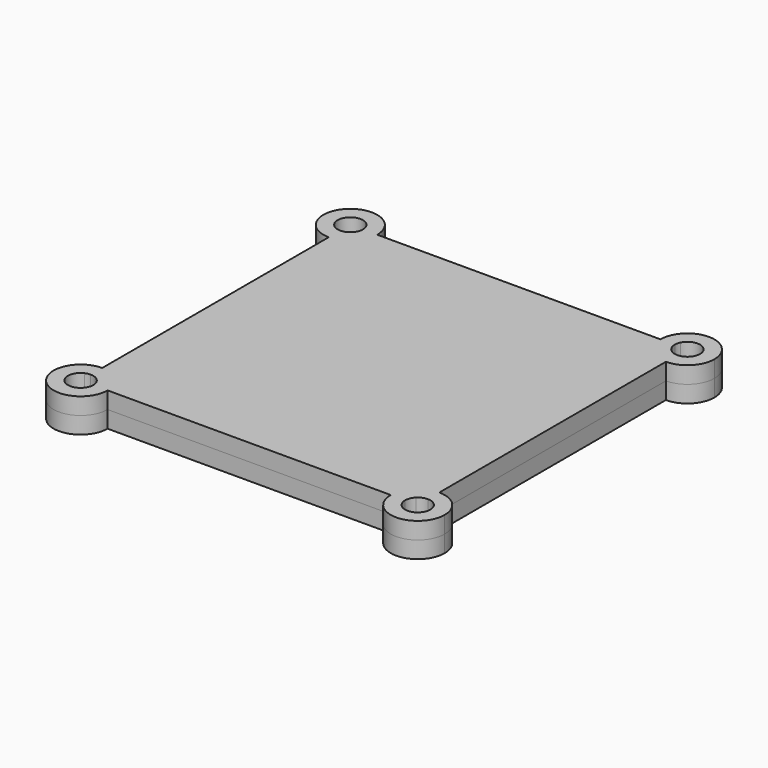
from build123d import *

# Parameters (mm, degrees)
F1_DEPTH = 5
F3_DEPTH = 25
F4_DEPTH = 2.5
F5_DEPTH = 2.5
F6_DEPTH = 2.5
F7_DEPTH = 2.5


with BuildPart() as f1:
    # F0 (on Top) → F1 (new body)
    with BuildSketch(Plane.XY):
        with BuildLine():
            ThreePointArc((-47.1118190335, 42.5395435324), (-48.5309274593, 42.1360426075), (-50, 42))
            Line((-50, 42), (-50, -42))
            ThreePointArc((-50, -42), (-48.4900795237, -42.1437833434), (-47.034434401, -42.5699649612))
            Line((-47.034434401, -42.5699649612), (-41.9311723239, -38.0483945934))
            ThreePointArc((-41.9311723239, -38.0483945934), (-40.0221812917, -37.3516206739), (-38.1559614151, -38.1559614151))
            Line((-38.1559614151, -38.1559614151), (-27, -27))
            Line((-27, -27), (-33, -27))
            Line((-33, -27), (-33, 27))
            Line((-33, 27), (-27, 27))
            Line((-27, 27), (-38.1559614151, 38.1559614151))
            ThreePointArc((-38.1559614151, 38.1559614151), (-40.083919893, 37.3505550762), (-42.021452709, 38.132648325))
            Line((-42.021452709, 38.132648325), (-47.1118190335, 42.5395435324))
        make_face()
        Polygon((0, 0), (-27, 27), (-33, 27), (-33, -27), (-27, -27), align=None)
        Polygon((27, 27), (-27, 27), (0, 0), align=None)
        Polygon((33, 27), (27, 27), (0, 0), (27, -27), (33, -27), align=None)
        Polygon((27, -27), (0, 0), (-27, -27), align=None)
        with BuildLine():
            ThreePointArc((-42.5524581868, -47.0786782203), (-42.1393278116, -48.5134493795), (-42, -50))
            Line((-42, -50), (42, -50))
            ThreePointArc((42, -50), (42.1359644106, -48.5313461101), (42.5392360621, -47.1126133854))
            Line((42.5392360621, -47.1126133854), (38.1140021207, -42.0021638285))
            ThreePointArc((38.1140021207, -42.0021638285), (37.3506686908, -40.0705063318), (38.1559614151, -38.1559614151))
            Line((38.1559614151, -38.1559614151), (27, -27))
            Line((27, -27), (-27, -27))
            Line((-27, -27), (-38.1559614151, -38.1559614151))
            ThreePointArc((-38.1559614151, -38.1559614151), (-37.559836349, -39.0481256244), (-37.3505050634, -40.1005050634))
            ThreePointArc((-37.3505050634, -40.1005050634), (-37.5262312232, -41.0677765846), (-38.0309517511, -41.9114299894))
            Line((-38.0309517511, -41.9114299894), (-42.5524581868, -47.0786782203))
        make_face()
        with BuildLine():
            Line((-40.8076118446, -40.8076118446), (-42.0450487117, -42.0450487117))
            ThreePointArc((-42.0450487117, -42.0450487117), (-41.7513990302, -42.2998343044), (-41.4247542089, -42.510663606))
            ThreePointArc((-41.4247542089, -42.510663606), (-40.7764895228, -42.1892686918), (-40.5147186258, -41.5147186258))
            ThreePointArc((-40.5147186258, -41.5147186258), (-40.5908390933, -41.1320351934), (-40.8076118446, -40.8076118446))
        make_face()
        with BuildLine():
            Line((-41.9311723239, -38.0483945934), (-47.034434401, -42.5699649612))
            ThreePointArc((-47.034434401, -42.5699649612), (-45.5985714207, -43.3196237785), (-44.3431457505, -44.3431457505))
            Line((-44.3431457505, -44.3431457505), (-42.2218254069, -42.2218254069))
            ThreePointArc((-42.2218254069, -42.2218254069), (-42.4548925188, -41.8554135784), (-42.510663606, -41.4247542089))
            ThreePointArc((-42.510663606, -41.4247542089), (-42.8108743992, -39.6353190109), (-41.9311723239, -38.0483945934))
        make_face()
        with BuildLine():
            ThreePointArc((-42.510663606, -41.4247542089), (-42.4548925188, -41.8554135784), (-42.2218254069, -42.2218254069))
            Line((-42.2218254069, -42.2218254069), (-42.0450487117, -42.0450487117))
            ThreePointArc((-42.0450487117, -42.0450487117), (-42.2998343044, -41.7513990302), (-42.510663606, -41.4247542089))
        make_face()
        with BuildLine():
            ThreePointArc((-38.1559614151, -38.1559614151), (-40.0221812917, -37.3516206739), (-41.9311723239, -38.0483945934))
            ThreePointArc((-41.9311723239, -38.0483945934), (-42.8108743992, -39.6353190109), (-42.510663606, -41.4247542089))
            ThreePointArc((-42.510663606, -41.4247542089), (-41.8554135784, -40.5745447327), (-40.8076118446, -40.8076118446))
            Line((-40.8076118446, -40.8076118446), (-38.1559614151, -38.1559614151))
        make_face()
        with BuildLine():
            Line((-42.2218254069, -42.2218254069), (-44.3431457505, -44.3431457505))
            ThreePointArc((-44.3431457505, -44.3431457505), (-43.3065641472, -45.618457294), (-42.5524581868, -47.0786782203))
            Line((-42.5524581868, -47.0786782203), (-38.0309517511, -41.9114299894))
            ThreePointArc((-38.0309517511, -41.9114299894), (-39.6223421131, -42.8086151411), (-41.4247542089, -42.510663606))
            ThreePointArc((-41.4247542089, -42.510663606), (-41.8554135784, -42.4548925188), (-42.2218254069, -42.2218254069))
        make_face()
        with BuildLine():
            ThreePointArc((-37.3505050634, -40.1005050634), (-37.559836349, -39.0481256244), (-38.1559614151, -38.1559614151))
            Line((-38.1559614151, -38.1559614151), (-40.8076118446, -40.8076118446))
            ThreePointArc((-40.8076118446, -40.8076118446), (-40.5908390933, -41.1320351934), (-40.5147186258, -41.5147186258))
            ThreePointArc((-40.5147186258, -41.5147186258), (-40.7764895228, -42.1892686918), (-41.4247542089, -42.510663606))
            ThreePointArc((-41.4247542089, -42.510663606), (-39.6223421131, -42.8086151411), (-38.0309517511, -41.9114299894))
            ThreePointArc((-38.0309517511, -41.9114299894), (-37.5262312232, -41.0677765846), (-37.3505050634, -40.1005050634))
        make_face()
        with BuildLine():
            Line((-42.0450487117, -42.0450487117), (-42.2218254069, -42.2218254069))
            ThreePointArc((-42.2218254069, -42.2218254069), (-41.8554135784, -42.4548925188), (-41.4247542089, -42.510663606))
            ThreePointArc((-41.4247542089, -42.510663606), (-41.7513990302, -42.2998343044), (-42.0450487117, -42.0450487117))
        make_face()
        with BuildLine():
            ThreePointArc((-40.8076118446, -40.8076118446), (-41.8554135784, -40.5745447327), (-42.510663606, -41.4247542089))
            ThreePointArc((-42.510663606, -41.4247542089), (-42.2998343044, -41.7513990302), (-42.0450487117, -42.0450487117))
            Line((-42.0450487117, -42.0450487117), (-40.8076118446, -40.8076118446))
        make_face()
        with BuildLine():
            ThreePointArc((44.3431457505, -44.3431457505), (45.633709336, -43.2966049022), (47.1126239293, -42.5392319815))
            Line((47.1126239293, -42.5392319815), (42.0018804992, -38.1137309313))
            ThreePointArc((42.0018804992, -38.1137309313), (42.6294655661, -39.0202926881), (42.8505050634, -40.1005050634))
            ThreePointArc((42.8505050634, -40.1005050634), (42.7641901041, -40.7840853468), (42.510663606, -41.4247542089))
            ThreePointArc((42.510663606, -41.4247542089), (42.5137043565, -41.4696907469), (42.5147186258, -41.5147186258))
            ThreePointArc((42.5147186258, -41.5147186258), (42.4385981583, -41.8974020581), (42.2218254069, -42.2218254069))
            Line((42.2218254069, -42.2218254069), (44.3431457505, -44.3431457505))
        make_face()
        with BuildLine():
            Line((38.1140021207, -42.0021638285), (42.5392360621, -47.1126133854))
            ThreePointArc((42.5392360621, -47.1126133854), (43.2966079875, -45.6337045992), (44.3431457505, -44.3431457505))
            Line((44.3431457505, -44.3431457505), (42.2218254069, -42.2218254069))
            ThreePointArc((42.2218254069, -42.2218254069), (41.8554135784, -42.4548925188), (41.4247542089, -42.510663606))
            ThreePointArc((41.4247542089, -42.510663606), (39.6830268856, -42.8186316188), (38.1140021207, -42.0021638285))
        make_face()
        with BuildLine():
            ThreePointArc((38.1559614151, -38.1559614151), (37.3506686908, -40.0705063318), (38.1140021207, -42.0021638285))
            ThreePointArc((38.1140021207, -42.0021638285), (39.6830268856, -42.8186316188), (41.4247542089, -42.510663606))
            ThreePointArc((41.4247542089, -42.510663606), (40.5745447327, -41.8554135784), (40.8076118446, -40.8076118446))
            Line((40.8076118446, -40.8076118446), (38.1559614151, -38.1559614151))
        make_face()
        with BuildLine():
            ThreePointArc((42.8505050634, -40.1005050634), (42.6294655661, -39.0202926881), (42.0018804992, -38.1137309313))
            ThreePointArc((42.0018804992, -38.1137309313), (40.0703102446, -37.3506708369), (38.1559614151, -38.1559614151))
            Line((38.1559614151, -38.1559614151), (40.8076118446, -40.8076118446))
            ThreePointArc((40.8076118446, -40.8076118446), (41.8554135784, -40.5745447327), (42.510663606, -41.4247542089))
            ThreePointArc((42.510663606, -41.4247542089), (42.7641901041, -40.7840853468), (42.8505050634, -40.1005050634))
        make_face()
        with BuildLine():
            Line((42.0450487117, -42.0450487117), (42.2218254069, -42.2218254069))
            ThreePointArc((42.2218254069, -42.2218254069), (42.4385981583, -41.8974020581), (42.5147186258, -41.5147186258))
            ThreePointArc((42.5147186258, -41.5147186258), (42.5137043565, -41.4696907469), (42.510663606, -41.4247542089))
            ThreePointArc((42.510663606, -41.4247542089), (42.2998343044, -41.7513990302), (42.0450487117, -42.0450487117))
        make_face()
        with BuildLine():
            Line((40.8076118446, -40.8076118446), (42.0450487117, -42.0450487117))
            ThreePointArc((42.0450487117, -42.0450487117), (42.2998343044, -41.7513990302), (42.510663606, -41.4247542089))
            ThreePointArc((42.510663606, -41.4247542089), (41.8554135784, -40.5745447327), (40.8076118446, -40.8076118446))
        make_face()
        with BuildLine():
            ThreePointArc((40.8076118446, -40.8076118446), (40.5745447327, -41.8554135784), (41.4247542089, -42.510663606))
            ThreePointArc((41.4247542089, -42.510663606), (41.7513990302, -42.2998343044), (42.0450487117, -42.0450487117))
            Line((42.0450487117, -42.0450487117), (40.8076118446, -40.8076118446))
        make_face()
        with BuildLine():
            ThreePointArc((41.4247542089, -42.510663606), (41.8554135784, -42.4548925188), (42.2218254069, -42.2218254069))
            Line((42.2218254069, -42.2218254069), (42.0450487117, -42.0450487117))
            ThreePointArc((42.0450487117, -42.0450487117), (41.7513990302, -42.2998343044), (41.4247542089, -42.510663606))
        make_face()
        with BuildLine():
            Line((40.8076118446, 40.8076118446), (38.1559614151, 38.1559614151))
            ThreePointArc((38.1559614151, 38.1559614151), (40.1609841608, 37.351170184), (42.1286773671, 38.2433521062))
            ThreePointArc((42.1286773671, 38.2433521062), (42.663703635, 39.1042555553), (42.8505050634, 40.1005050634))
            ThreePointArc((42.8505050634, 40.1005050634), (42.7641901041, 40.7840853468), (42.510663606, 41.4247542089))
            ThreePointArc((42.510663606, 41.4247542089), (41.8554135784, 40.5745447327), (40.8076118446, 40.8076118446))
        make_face()
        with BuildLine():
            ThreePointArc((42.510663606, 41.4247542089), (42.2998343044, 41.7513990302), (42.0450487117, 42.0450487117))
            Line((42.0450487117, 42.0450487117), (40.8076118446, 40.8076118446))
            ThreePointArc((40.8076118446, 40.8076118446), (41.8554135784, 40.5745447327), (42.510663606, 41.4247542089))
        make_face()
        with BuildLine():
            ThreePointArc((42.5147186258, 41.5147186258), (42.4385981583, 41.8974020581), (42.2218254069, 42.2218254069))
            Line((42.2218254069, 42.2218254069), (42.0450487117, 42.0450487117))
            ThreePointArc((42.0450487117, 42.0450487117), (42.2998343044, 41.7513990302), (42.510663606, 41.4247542089))
            ThreePointArc((42.510663606, 41.4247542089), (42.5137043565, 41.4696907469), (42.5147186258, 41.5147186258))
        make_face()
        with BuildLine():
            ThreePointArc((44.3431457505, 44.3431457505), (43.3152853744, 45.6051632141), (42.5641288409, 47.0490984249))
            Line((42.5641288409, 47.0490984249), (38.1345611961, 42.0234103421))
            ThreePointArc((38.1345611961, 42.0234103421), (39.6976440889, 42.8208364835), (41.4247542089, 42.510663606))
            ThreePointArc((41.4247542089, 42.510663606), (41.8554135784, 42.4548925188), (42.2218254069, 42.2218254069))
            Line((42.2218254069, 42.2218254069), (44.3431457505, 44.3431457505))
        make_face()
        with BuildLine():
            Line((42.0450487117, 42.0450487117), (42.2218254069, 42.2218254069))
            ThreePointArc((42.2218254069, 42.2218254069), (41.8554135784, 42.4548925188), (41.4247542089, 42.510663606))
            ThreePointArc((41.4247542089, 42.510663606), (41.7513990302, 42.2998343044), (42.0450487117, 42.0450487117))
        make_face()
        with BuildLine():
            ThreePointArc((42.0450487117, 42.0450487117), (41.7513990302, 42.2998343044), (41.4247542089, 42.510663606))
            ThreePointArc((41.4247542089, 42.510663606), (40.5745447327, 41.8554135784), (40.8076118446, 40.8076118446))
            Line((40.8076118446, 40.8076118446), (42.0450487117, 42.0450487117))
        make_face()
        with BuildLine():
            ThreePointArc((47.0432706862, 42.5664442045), (45.6025436277, 43.3170083455), (44.3431457505, 44.3431457505))
            Line((44.3431457505, 44.3431457505), (42.2218254069, 42.2218254069))
            ThreePointArc((42.2218254069, 42.2218254069), (42.4385981583, 41.8974020581), (42.5147186258, 41.5147186258))
            ThreePointArc((42.5147186258, 41.5147186258), (42.5137043565, 41.4696907469), (42.510663606, 41.4247542089))
            ThreePointArc((42.510663606, 41.4247542089), (42.7641901041, 40.7840853468), (42.8505050634, 40.1005050634))
            ThreePointArc((42.8505050634, 40.1005050634), (42.663703635, 39.1042555553), (42.1286773671, 38.2433521062))
            Line((42.1286773671, 38.2433521062), (47.0432706862, 42.5664442045))
        make_face()
        with BuildLine():
            ThreePointArc((41.4247542089, 42.510663606), (39.6976440889, 42.8208364835), (38.1345611961, 42.0234103421))
            ThreePointArc((38.1345611961, 42.0234103421), (37.3505471632, 40.0852883915), (38.1559614151, 38.1559614151))
            Line((38.1559614151, 38.1559614151), (40.8076118446, 40.8076118446))
            ThreePointArc((40.8076118446, 40.8076118446), (40.5745447327, 41.8554135784), (41.4247542089, 42.510663606))
        make_face()
        with BuildLine():
            Line((42, 50), (-42, 50))
            ThreePointArc((-42, 50), (-42.140933584, 48.5049832544), (-42.5587687674, 47.0626410259))
            Line((-42.5587687674, 47.0626410259), (-38.0350012906, 41.916047452))
            ThreePointArc((-38.0350012906, 41.916047452), (-37.5273129432, 41.0706505744), (-37.3505050634, 40.1005050634))
            ThreePointArc((-37.3505050634, 40.1005050634), (-37.559836349, 39.0481256244), (-38.1559614151, 38.1559614151))
            Line((-38.1559614151, 38.1559614151), (-27, 27))
            Line((-27, 27), (27, 27))
            Line((27, 27), (38.1559614151, 38.1559614151))
            ThreePointArc((38.1559614151, 38.1559614151), (37.3505471632, 40.0852883915), (38.1345611961, 42.0234103421))
            Line((38.1345611961, 42.0234103421), (42.5641288409, 47.0490984249))
            ThreePointArc((42.5641288409, 47.0490984249), (42.1422977509, 48.497829782), (42, 50))
        make_face()
        with BuildLine():
            Line((-42, 50), (-45.1406569238, 50))
            Line((-45.1406569238, 50), (-42.5587687674, 47.0626410259))
            ThreePointArc((-42.5587687674, 47.0626410259), (-42.140933584, 48.5049832544), (-42, 50))
        make_face()
        with BuildLine():
            Line((-40.8076118446, 40.8076118446), (-42.0450487117, 42.0450487117))
            ThreePointArc((-42.0450487117, 42.0450487117), (-42.2998343044, 41.7513990302), (-42.510663606, 41.4247542089))
            ThreePointArc((-42.510663606, 41.4247542089), (-41.8554135784, 40.5745447327), (-40.8076118446, 40.8076118446))
        make_face()
        with BuildLine():
            ThreePointArc((-37.3505050634, 40.1005050634), (-37.5273129432, 41.0706505744), (-38.0350012906, 41.916047452))
            ThreePointArc((-38.0350012906, 41.916047452), (-39.6253664539, 42.8091473989), (-41.4247542089, 42.510663606))
            ThreePointArc((-41.4247542089, 42.510663606), (-40.7764895228, 42.1892686918), (-40.5147186258, 41.5147186258))
            ThreePointArc((-40.5147186258, 41.5147186258), (-40.5908390933, 41.1320351934), (-40.8076118446, 40.8076118446))
            Line((-40.8076118446, 40.8076118446), (-38.1559614151, 38.1559614151))
            ThreePointArc((-38.1559614151, 38.1559614151), (-37.559836349, 39.0481256244), (-37.3505050634, 40.1005050634))
        make_face()
        with BuildLine():
            ThreePointArc((-41.4247542089, 42.510663606), (-41.7513990302, 42.2998343044), (-42.0450487117, 42.0450487117))
            Line((-42.0450487117, 42.0450487117), (-40.8076118446, 40.8076118446))
            ThreePointArc((-40.8076118446, 40.8076118446), (-40.5908390933, 41.1320351934), (-40.5147186258, 41.5147186258))
            ThreePointArc((-40.5147186258, 41.5147186258), (-40.7764895228, 42.1892686918), (-41.4247542089, 42.510663606))
        make_face()
        with BuildLine():
            Line((-47.1118190335, 42.5395435324), (-50, 45.0399354587))
            Line((-50, 45.0399354587), (-50, 42))
            ThreePointArc((-50, 42), (-48.5309274593, 42.1360426075), (-47.1118190335, 42.5395435324))
        make_face()
        with BuildLine():
            Line((-42.2218254069, 42.2218254069), (-44.3431457505, 44.3431457505))
            ThreePointArc((-44.3431457505, 44.3431457505), (-45.633347741, 43.2968404428), (-47.1118190335, 42.5395435324))
            Line((-47.1118190335, 42.5395435324), (-42.021452709, 38.132648325))
            ThreePointArc((-42.021452709, 38.132648325), (-42.8206356652, 39.6962903818), (-42.510663606, 41.4247542089))
            ThreePointArc((-42.510663606, 41.4247542089), (-42.4548925188, 41.8554135784), (-42.2218254069, 42.2218254069))
        make_face()
        with BuildLine():
            ThreePointArc((-42.510663606, 41.4247542089), (-42.8206356652, 39.6962903818), (-42.021452709, 38.132648325))
            ThreePointArc((-42.021452709, 38.132648325), (-40.083919893, 37.3505550762), (-38.1559614151, 38.1559614151))
            Line((-38.1559614151, 38.1559614151), (-40.8076118446, 40.8076118446))
            ThreePointArc((-40.8076118446, 40.8076118446), (-41.8554135784, 40.5745447327), (-42.510663606, 41.4247542089))
        make_face()
        with BuildLine():
            Line((-42.0450487117, 42.0450487117), (-42.2218254069, 42.2218254069))
            ThreePointArc((-42.2218254069, 42.2218254069), (-42.4548925188, 41.8554135784), (-42.510663606, 41.4247542089))
            ThreePointArc((-42.510663606, 41.4247542089), (-42.2998343044, 41.7513990302), (-42.0450487117, 42.0450487117))
        make_face()
        with BuildLine():
            ThreePointArc((-42.5587687674, 47.0626410259), (-43.3112875333, 45.6112501168), (-44.3431457505, 44.3431457505))
            Line((-44.3431457505, 44.3431457505), (-42.2218254069, 42.2218254069))
            ThreePointArc((-42.2218254069, 42.2218254069), (-41.8554135784, 42.4548925188), (-41.4247542089, 42.510663606))
            ThreePointArc((-41.4247542089, 42.510663606), (-39.6253664539, 42.8091473989), (-38.0350012906, 41.916047452))
            Line((-38.0350012906, 41.916047452), (-42.5587687674, 47.0626410259))
        make_face()
        with BuildLine():
            ThreePointArc((-47.3483495706, 47.3483495706), (-48.5649371286, 46.5354517531), (-50, 46.25))
            Line((-50, 46.25), (-50, 45.0399354587))
            Line((-50, 45.0399354587), (-47.1118190335, 42.5395435324))
            ThreePointArc((-47.1118190335, 42.5395435324), (-45.633347741, 43.2968404428), (-44.3431457505, 44.3431457505))
            Line((-44.3431457505, 44.3431457505), (-47.3483495706, 47.3483495706))
        make_face()
        with BuildLine():
            ThreePointArc((-41.4247542089, 42.510663606), (-41.8554135784, 42.4548925188), (-42.2218254069, 42.2218254069))
            Line((-42.2218254069, 42.2218254069), (-42.0450487117, 42.0450487117))
            ThreePointArc((-42.0450487117, 42.0450487117), (-41.7513990302, 42.2998343044), (-41.4247542089, 42.510663606))
        make_face()
        with BuildLine():
            Line((-45.1406569238, 50), (-46.25, 50))
            ThreePointArc((-46.25, 50), (-46.5354517531, 48.5649371286), (-47.3483495706, 47.3483495706))
            Line((-47.3483495706, 47.3483495706), (-44.3431457505, 44.3431457505))
            ThreePointArc((-44.3431457505, 44.3431457505), (-43.3112875333, 45.6112501168), (-42.5587687674, 47.0626410259))
            Line((-42.5587687674, 47.0626410259), (-45.1406569238, 50))
        make_face()
        with BuildLine():
            Line((50, -42), (50, 42))
            ThreePointArc((50, 42), (48.4947502473, 42.1428870963), (47.0432706862, 42.5664442045))
            Line((47.0432706862, 42.5664442045), (42.1286773671, 38.2433521062))
            ThreePointArc((42.1286773671, 38.2433521062), (40.1609841608, 37.351170184), (38.1559614151, 38.1559614151))
            Line((38.1559614151, 38.1559614151), (27, 27))
            Line((27, 27), (33, 27))
            Line((33, 27), (33, -27))
            Line((33, -27), (27, -27))
            Line((27, -27), (38.1559614151, -38.1559614151))
            ThreePointArc((38.1559614151, -38.1559614151), (40.0703102446, -37.3506708369), (42.0018804992, -38.1137309313))
            Line((42.0018804992, -38.1137309313), (47.1126239293, -42.5392319815))
            ThreePointArc((47.1126239293, -42.5392319815), (48.5313516671, -42.1359633728), (50, -42))
        make_face()
        with BuildLine():
            Line((-50, -45.1975026682), (-50, -42))
            ThreePointArc((-50, -42), (-55.6568542495, -55.6568542495), (-42, -50))
            Line((-42, -50), (-45.1087075941, -50))
            Line((-45.1087075941, -50), (-46.7583103337, -51.8851917958))
            ThreePointArc((-46.7583103337, -51.8851917958), (-52.7690587978, -52.5287968235), (-51.5840302456, -46.6009783494))
            Line((-51.5840302456, -46.6009783494), (-50, -45.1975026682))
        make_face()
        with BuildLine():
            Line((-47.034434401, -42.5699649612), (-50, -45.1975026682))
            Line((-50, -45.1975026682), (-50, -46.25))
            ThreePointArc((-50, -46.25), (-48.5649371286, -46.5354517531), (-47.3483495706, -47.3483495706))
            Line((-47.3483495706, -47.3483495706), (-44.3431457505, -44.3431457505))
            ThreePointArc((-44.3431457505, -44.3431457505), (-45.5985714207, -43.3196237785), (-47.034434401, -42.5699649612))
        make_face()
        with BuildLine():
            ThreePointArc((-47.034434401, -42.5699649612), (-48.4900795237, -42.1437833434), (-50, -42))
            Line((-50, -42), (-50, -45.1975026682))
            Line((-50, -45.1975026682), (-47.034434401, -42.5699649612))
        make_face()
        with BuildLine():
            ThreePointArc((-42.5524581868, -47.0786782203), (-43.3065641472, -45.618457294), (-44.3431457505, -44.3431457505))
            Line((-44.3431457505, -44.3431457505), (-47.3483495706, -47.3483495706))
            ThreePointArc((-47.3483495706, -47.3483495706), (-46.5354517531, -48.5649371286), (-46.25, -50))
            Line((-46.25, -50), (-45.1087075941, -50))
            Line((-45.1087075941, -50), (-42.5524581868, -47.0786782203))
        make_face()
        with BuildLine():
            Line((-45.1087075941, -50), (-42, -50))
            ThreePointArc((-42, -50), (-42.1393278116, -48.5134493795), (-42.5524581868, -47.0786782203))
            Line((-42.5524581868, -47.0786782203), (-45.1087075941, -50))
        make_face()
        with BuildLine():
            Line((-46.7583103337, -51.8851917958), (-45.1087075941, -50))
            Line((-45.1087075941, -50), (-46.25, -50))
            ThreePointArc((-46.25, -50), (-46.3793069552, -50.9762591232), (-46.7583103337, -51.8851917958))
        make_face()
        with BuildLine():
            Line((-50, -46.25), (-50, -45.1975026682))
            Line((-50, -45.1975026682), (-51.5840302456, -46.6009783494))
            ThreePointArc((-51.5840302456, -46.6009783494), (-50.8112240166, -46.3387958818), (-50, -46.25))
        make_face()
        with BuildLine():
            ThreePointArc((42.5392360621, -47.1126133854), (42.1359644106, -48.5313461101), (42, -50))
            Line((42, -50), (45.0394781849, -50))
            Line((45.0394781849, -50), (42.5392360621, -47.1126133854))
        make_face()
        with BuildLine():
            Line((42.5392360621, -47.1126133854), (45.0394781849, -50))
            Line((45.0394781849, -50), (46.25, -50))
            ThreePointArc((46.25, -50), (46.5354517531, -48.5649371286), (47.3483495706, -47.3483495706))
            Line((47.3483495706, -47.3483495706), (44.3431457505, -44.3431457505))
            ThreePointArc((44.3431457505, -44.3431457505), (43.2966079875, -45.6337045992), (42.5392360621, -47.1126133854))
        make_face()
        with BuildLine():
            Line((50, -46.25), (50, -45.0394721144))
            Line((50, -45.0394721144), (47.1126239293, -42.5392319815))
            ThreePointArc((47.1126239293, -42.5392319815), (45.633709336, -43.2966049022), (44.3431457505, -44.3431457505))
            Line((44.3431457505, -44.3431457505), (47.3483495706, -47.3483495706))
            ThreePointArc((47.3483495706, -47.3483495706), (48.5649371286, -46.5354517531), (50, -46.25))
        make_face()
        with BuildLine():
            Line((50, -45.0394721144), (50, -42))
            ThreePointArc((50, -42), (48.5313516671, -42.1359633728), (47.1126239293, -42.5392319815))
            Line((47.1126239293, -42.5392319815), (50, -45.0394721144))
        make_face()
        with BuildLine():
            Line((45.0394781849, -50), (42, -50))
            ThreePointArc((42, -50), (50, -58), (58, -50))
            ThreePointArc((58, -50), (55.6568542495, -44.3431457505), (50, -42))
            Line((50, -42), (50, -45.0394721144))
            Line((50, -45.0394721144), (52.4547824471, -47.1651202605))
            ThreePointArc((52.4547824471, -47.1651202605), (53.4108601684, -48.4416249131), (53.75, -50))
            ThreePointArc((53.75, -50), (51.3099022802, -53.513780872), (47.1651167913, -52.4547784407))
            Line((47.1651167913, -52.4547784407), (45.0394781849, -50))
        make_face()
        with BuildLine():
            Line((46.25, -50), (45.0394781849, -50))
            Line((45.0394781849, -50), (47.1651167913, -52.4547784407))
            ThreePointArc((47.1651167913, -52.4547784407), (46.486219128, -51.3099022802), (46.25, -50))
        make_face()
        with BuildLine():
            Line((52.4547824471, -47.1651202605), (50, -45.0394721144))
            Line((50, -45.0394721144), (50, -46.25))
            ThreePointArc((50, -46.25), (51.3099047631, -46.4862200536), (52.4547824471, -47.1651202605))
        make_face()
        with BuildLine():
            ThreePointArc((58, 50), (50, 58), (42, 50))
            Line((42, 50), (45.1650101381, 50))
            Line((45.1650101381, 50), (46.6495388897, 51.6843130197))
            ThreePointArc((46.6495388897, 51.6843130197), (50.8655260933, 53.6487483582), (53.75, 50))
            ThreePointArc((53.75, 50), (53.1925653621, 48.0327617305), (51.6859859153, 46.6503803957))
            Line((51.6859859153, 46.6503803957), (50, 45.1673131478))
            Line((50, 45.1673131478), (50, 42))
            ThreePointArc((50, 42), (55.6568542495, 44.3431457505), (58, 50))
        make_face()
        with BuildLine():
            Line((45.1650101381, 50), (42, 50))
            ThreePointArc((42, 50), (42.1422977509, 48.497829782), (42.5641288409, 47.0490984249))
            Line((42.5641288409, 47.0490984249), (45.1650101381, 50))
        make_face()
        with BuildLine():
            Line((46.25, 50), (45.1650101381, 50))
            Line((45.1650101381, 50), (42.5641288409, 47.0490984249))
            ThreePointArc((42.5641288409, 47.0490984249), (43.3152853744, 45.6051632141), (44.3431457505, 44.3431457505))
            Line((44.3431457505, 44.3431457505), (47.3483495706, 47.3483495706))
            ThreePointArc((47.3483495706, 47.3483495706), (46.5354517531, 48.5649371286), (46.25, 50))
        make_face()
        with BuildLine():
            Line((47.3483495706, 47.3483495706), (44.3431457505, 44.3431457505))
            ThreePointArc((44.3431457505, 44.3431457505), (45.6025436277, 43.3170083455), (47.0432706862, 42.5664442045))
            Line((47.0432706862, 42.5664442045), (50, 45.1673131478))
            Line((50, 45.1673131478), (50, 46.25))
            ThreePointArc((50, 46.25), (48.5649371286, 46.5354517531), (47.3483495706, 47.3483495706))
        make_face()
        with BuildLine():
            Line((50, 46.25), (50, 45.1673131478))
            Line((50, 45.1673131478), (51.6859859153, 46.6503803957))
            ThreePointArc((51.6859859153, 46.6503803957), (50.8664370964, 46.3514678625), (50, 46.25))
        make_face()
        with BuildLine():
            ThreePointArc((47.0432706862, 42.5664442045), (48.4947502473, 42.1428870963), (50, 42))
            Line((50, 42), (50, 45.1673131478))
            Line((50, 45.1673131478), (47.0432706862, 42.5664442045))
        make_face()
        with BuildLine():
            Line((46.6495388897, 51.6843130197), (45.1650101381, 50))
            Line((45.1650101381, 50), (46.25, 50))
            ThreePointArc((46.25, 50), (46.3512516418, 50.8655260933), (46.6495388897, 51.6843130197))
        make_face()
        with BuildLine():
            Line((-46.6902111669, 51.7628947445), (-45.1406569238, 50))
            Line((-45.1406569238, 50), (-42, 50))
            ThreePointArc((-42, 50), (-55.6568542495, 55.6568542495), (-50, 42))
            Line((-50, 42), (-50, 45.0399354587))
            Line((-50, 45.0399354587), (-52.4544765889, 47.1648554403))
            ThreePointArc((-52.4544765889, 47.1648554403), (-52.3384569955, 52.9315727657), (-46.6902111669, 51.7628947445))
        make_face()
        with BuildLine():
            Line((-50, 45.0399354587), (-50, 46.25))
            ThreePointArc((-50, 46.25), (-51.3097152174, 46.4861493985), (-52.4544765889, 47.1648554403))
            Line((-52.4544765889, 47.1648554403), (-50, 45.0399354587))
        make_face()
        with BuildLine():
            ThreePointArc((-46.6902111669, 51.7628947445), (-46.3617168799, 50.9085130367), (-46.25, 50))
            Line((-46.25, 50), (-45.1406569238, 50))
            Line((-45.1406569238, 50), (-46.6902111669, 51.7628947445))
        make_face()
    extrude(amount=F1_DEPTH)


with BuildPart() as f2_1:
    # F2: instance of F1
    add(f1.part.mirror(Plane.XY))

    # F0 (on Top) → F3 (cut)
    with BuildSketch(Plane.XY):
        Polygon((0, 0), (-27, 27), (-33, 27), (-33, -27), (-27, -27), align=None)
        Polygon((27, 27), (-27, 27), (0, 0), align=None)
        Polygon((33, 27), (27, 27), (0, 0), (27, -27), (33, -27), align=None)
        Polygon((27, -27), (0, 0), (-27, -27), align=None)
        with BuildLine():
            ThreePointArc((-42.510663606, -41.4247542089), (-42.4548925188, -41.8554135784), (-42.2218254069, -42.2218254069))
            Line((-42.2218254069, -42.2218254069), (-42.0450487117, -42.0450487117))
            ThreePointArc((-42.0450487117, -42.0450487117), (-42.2998343044, -41.7513990302), (-42.510663606, -41.4247542089))
        make_face()
        with BuildLine():
            Line((-42.0450487117, -42.0450487117), (-42.2218254069, -42.2218254069))
            ThreePointArc((-42.2218254069, -42.2218254069), (-41.8554135784, -42.4548925188), (-41.4247542089, -42.510663606))
            ThreePointArc((-41.4247542089, -42.510663606), (-41.7513990302, -42.2998343044), (-42.0450487117, -42.0450487117))
        make_face()
        with BuildLine():
            Line((-40.8076118446, -40.8076118446), (-42.0450487117, -42.0450487117))
            ThreePointArc((-42.0450487117, -42.0450487117), (-41.7513990302, -42.2998343044), (-41.4247542089, -42.510663606))
            ThreePointArc((-41.4247542089, -42.510663606), (-40.7764895228, -42.1892686918), (-40.5147186258, -41.5147186258))
            ThreePointArc((-40.5147186258, -41.5147186258), (-40.5908390933, -41.1320351934), (-40.8076118446, -40.8076118446))
        make_face()
        with BuildLine():
            ThreePointArc((-40.8076118446, -40.8076118446), (-41.8554135784, -40.5745447327), (-42.510663606, -41.4247542089))
            ThreePointArc((-42.510663606, -41.4247542089), (-42.2998343044, -41.7513990302), (-42.0450487117, -42.0450487117))
            Line((-42.0450487117, -42.0450487117), (-40.8076118446, -40.8076118446))
        make_face()
        with BuildLine():
            ThreePointArc((41.4247542089, -42.510663606), (41.8554135784, -42.4548925188), (42.2218254069, -42.2218254069))
            Line((42.2218254069, -42.2218254069), (42.0450487117, -42.0450487117))
            ThreePointArc((42.0450487117, -42.0450487117), (41.7513990302, -42.2998343044), (41.4247542089, -42.510663606))
        make_face()
        with BuildLine():
            Line((42.0450487117, -42.0450487117), (42.2218254069, -42.2218254069))
            ThreePointArc((42.2218254069, -42.2218254069), (42.4385981583, -41.8974020581), (42.5147186258, -41.5147186258))
            ThreePointArc((42.5147186258, -41.5147186258), (42.5137043565, -41.4696907469), (42.510663606, -41.4247542089))
            ThreePointArc((42.510663606, -41.4247542089), (42.2998343044, -41.7513990302), (42.0450487117, -42.0450487117))
        make_face()
        with BuildLine():
            Line((40.8076118446, -40.8076118446), (42.0450487117, -42.0450487117))
            ThreePointArc((42.0450487117, -42.0450487117), (42.2998343044, -41.7513990302), (42.510663606, -41.4247542089))
            ThreePointArc((42.510663606, -41.4247542089), (41.8554135784, -40.5745447327), (40.8076118446, -40.8076118446))
        make_face()
        with BuildLine():
            ThreePointArc((40.8076118446, -40.8076118446), (40.5745447327, -41.8554135784), (41.4247542089, -42.510663606))
            ThreePointArc((41.4247542089, -42.510663606), (41.7513990302, -42.2998343044), (42.0450487117, -42.0450487117))
            Line((42.0450487117, -42.0450487117), (40.8076118446, -40.8076118446))
        make_face()
        with BuildLine():
            ThreePointArc((42.5147186258, 41.5147186258), (42.4385981583, 41.8974020581), (42.2218254069, 42.2218254069))
            Line((42.2218254069, 42.2218254069), (42.0450487117, 42.0450487117))
            ThreePointArc((42.0450487117, 42.0450487117), (42.2998343044, 41.7513990302), (42.510663606, 41.4247542089))
            ThreePointArc((42.510663606, 41.4247542089), (42.5137043565, 41.4696907469), (42.5147186258, 41.5147186258))
        make_face()
        with BuildLine():
            Line((42.0450487117, 42.0450487117), (42.2218254069, 42.2218254069))
            ThreePointArc((42.2218254069, 42.2218254069), (41.8554135784, 42.4548925188), (41.4247542089, 42.510663606))
            ThreePointArc((41.4247542089, 42.510663606), (41.7513990302, 42.2998343044), (42.0450487117, 42.0450487117))
        make_face()
        with BuildLine():
            ThreePointArc((42.0450487117, 42.0450487117), (41.7513990302, 42.2998343044), (41.4247542089, 42.510663606))
            ThreePointArc((41.4247542089, 42.510663606), (40.5745447327, 41.8554135784), (40.8076118446, 40.8076118446))
            Line((40.8076118446, 40.8076118446), (42.0450487117, 42.0450487117))
        make_face()
        with BuildLine():
            ThreePointArc((42.510663606, 41.4247542089), (42.2998343044, 41.7513990302), (42.0450487117, 42.0450487117))
            Line((42.0450487117, 42.0450487117), (40.8076118446, 40.8076118446))
            ThreePointArc((40.8076118446, 40.8076118446), (41.8554135784, 40.5745447327), (42.510663606, 41.4247542089))
        make_face()
        with BuildLine():
            ThreePointArc((-41.4247542089, 42.510663606), (-41.8554135784, 42.4548925188), (-42.2218254069, 42.2218254069))
            Line((-42.2218254069, 42.2218254069), (-42.0450487117, 42.0450487117))
            ThreePointArc((-42.0450487117, 42.0450487117), (-41.7513990302, 42.2998343044), (-41.4247542089, 42.510663606))
        make_face()
        with BuildLine():
            Line((-42.0450487117, 42.0450487117), (-42.2218254069, 42.2218254069))
            ThreePointArc((-42.2218254069, 42.2218254069), (-42.4548925188, 41.8554135784), (-42.510663606, 41.4247542089))
            ThreePointArc((-42.510663606, 41.4247542089), (-42.2998343044, 41.7513990302), (-42.0450487117, 42.0450487117))
        make_face()
        with BuildLine():
            Line((-40.8076118446, 40.8076118446), (-42.0450487117, 42.0450487117))
            ThreePointArc((-42.0450487117, 42.0450487117), (-42.2998343044, 41.7513990302), (-42.510663606, 41.4247542089))
            ThreePointArc((-42.510663606, 41.4247542089), (-41.8554135784, 40.5745447327), (-40.8076118446, 40.8076118446))
        make_face()
        with BuildLine():
            ThreePointArc((-41.4247542089, 42.510663606), (-41.7513990302, 42.2998343044), (-42.0450487117, 42.0450487117))
            Line((-42.0450487117, 42.0450487117), (-40.8076118446, 40.8076118446))
            ThreePointArc((-40.8076118446, 40.8076118446), (-40.5908390933, 41.1320351934), (-40.5147186258, 41.5147186258))
            ThreePointArc((-40.5147186258, 41.5147186258), (-40.7764895228, 42.1892686918), (-41.4247542089, 42.510663606))
        make_face()
    extrude(amount=-F3_DEPTH, mode=Mode.SUBTRACT)

    # F0 (on Top) → F4 (cut)
    with BuildSketch(Plane.XY):
        with BuildLine():
            ThreePointArc((-50, 48.5), (-51.0606601718, 51.0606601718), (-48.5, 50))
            Line((-48.5, 50), (-46.25, 50))
            ThreePointArc((-46.25, 50), (-46.3617168799, 50.9085130367), (-46.6902111669, 51.7628947445))
            ThreePointArc((-46.6902111669, 51.7628947445), (-52.3384569955, 52.9315727657), (-52.4544765889, 47.1648554403))
            ThreePointArc((-52.4544765889, 47.1648554403), (-51.3097152174, 46.4861493985), (-50, 46.25))
            Line((-50, 46.25), (-50, 48.5))
        make_face()
        with BuildLine():
            Line((-45.1406569238, 50), (-46.25, 50))
            ThreePointArc((-46.25, 50), (-46.5354517531, 48.5649371286), (-47.3483495706, 47.3483495706))
            Line((-47.3483495706, 47.3483495706), (-44.3431457505, 44.3431457505))
            ThreePointArc((-44.3431457505, 44.3431457505), (-43.3112875333, 45.6112501168), (-42.5587687674, 47.0626410259))
            Line((-42.5587687674, 47.0626410259), (-45.1406569238, 50))
        make_face()
        with BuildLine():
            ThreePointArc((-46.6902111669, 51.7628947445), (-46.3617168799, 50.9085130367), (-46.25, 50))
            Line((-46.25, 50), (-45.1406569238, 50))
            Line((-45.1406569238, 50), (-46.6902111669, 51.7628947445))
        make_face()
        with BuildLine():
            ThreePointArc((-42.5587687674, 47.0626410259), (-43.3112875333, 45.6112501168), (-44.3431457505, 44.3431457505))
            Line((-44.3431457505, 44.3431457505), (-42.2218254069, 42.2218254069))
            ThreePointArc((-42.2218254069, 42.2218254069), (-41.8554135784, 42.4548925188), (-41.4247542089, 42.510663606))
            ThreePointArc((-41.4247542089, 42.510663606), (-39.6253664539, 42.8091473989), (-38.0350012906, 41.916047452))
            Line((-38.0350012906, 41.916047452), (-42.5587687674, 47.0626410259))
        make_face()
        with BuildLine():
            ThreePointArc((-37.3505050634, 40.1005050634), (-37.5273129432, 41.0706505744), (-38.0350012906, 41.916047452))
            ThreePointArc((-38.0350012906, 41.916047452), (-39.6253664539, 42.8091473989), (-41.4247542089, 42.510663606))
            ThreePointArc((-41.4247542089, 42.510663606), (-40.7764895228, 42.1892686918), (-40.5147186258, 41.5147186258))
            ThreePointArc((-40.5147186258, 41.5147186258), (-40.5908390933, 41.1320351934), (-40.8076118446, 40.8076118446))
            Line((-40.8076118446, 40.8076118446), (-38.1559614151, 38.1559614151))
            ThreePointArc((-38.1559614151, 38.1559614151), (-37.559836349, 39.0481256244), (-37.3505050634, 40.1005050634))
        make_face()
        with BuildLine():
            ThreePointArc((-42.510663606, 41.4247542089), (-42.8206356652, 39.6962903818), (-42.021452709, 38.132648325))
            ThreePointArc((-42.021452709, 38.132648325), (-40.083919893, 37.3505550762), (-38.1559614151, 38.1559614151))
            Line((-38.1559614151, 38.1559614151), (-40.8076118446, 40.8076118446))
            ThreePointArc((-40.8076118446, 40.8076118446), (-41.8554135784, 40.5745447327), (-42.510663606, 41.4247542089))
        make_face()
        with BuildLine():
            Line((-42.2218254069, 42.2218254069), (-44.3431457505, 44.3431457505))
            ThreePointArc((-44.3431457505, 44.3431457505), (-45.633347741, 43.2968404428), (-47.1118190335, 42.5395435324))
            Line((-47.1118190335, 42.5395435324), (-42.021452709, 38.132648325))
            ThreePointArc((-42.021452709, 38.132648325), (-42.8206356652, 39.6962903818), (-42.510663606, 41.4247542089))
            ThreePointArc((-42.510663606, 41.4247542089), (-42.4548925188, 41.8554135784), (-42.2218254069, 42.2218254069))
        make_face()
        with BuildLine():
            ThreePointArc((-47.3483495706, 47.3483495706), (-48.5649371286, 46.5354517531), (-50, 46.25))
            Line((-50, 46.25), (-50, 45.0399354587))
            Line((-50, 45.0399354587), (-47.1118190335, 42.5395435324))
            ThreePointArc((-47.1118190335, 42.5395435324), (-45.633347741, 43.2968404428), (-44.3431457505, 44.3431457505))
            Line((-44.3431457505, 44.3431457505), (-47.3483495706, 47.3483495706))
        make_face()
        with BuildLine():
            Line((-50, 45.0399354587), (-50, 46.25))
            ThreePointArc((-50, 46.25), (-51.3097152174, 46.4861493985), (-52.4544765889, 47.1648554403))
            Line((-52.4544765889, 47.1648554403), (-50, 45.0399354587))
        make_face()
        with BuildLine():
            ThreePointArc((-48.9393398282, 48.9393398282), (-49.4259748515, 48.6141807012), (-50, 48.5))
            Line((-50, 48.5), (-50, 46.25))
            ThreePointArc((-50, 46.25), (-48.5649371286, 46.5354517531), (-47.3483495706, 47.3483495706))
            Line((-47.3483495706, 47.3483495706), (-48.9393398282, 48.9393398282))
        make_face()
        with BuildLine():
            Line((-46.25, 50), (-48.5, 50))
            ThreePointArc((-48.5, 50), (-48.6141807012, 49.4259748515), (-48.9393398282, 48.9393398282))
            Line((-48.9393398282, 48.9393398282), (-47.3483495706, 47.3483495706))
            ThreePointArc((-47.3483495706, 47.3483495706), (-46.5354517531, 48.5649371286), (-46.25, 50))
        make_face()
    extrude(amount=-F4_DEPTH, mode=Mode.SUBTRACT)

    # F0 (on Top) → F5 (cut)
    with BuildSketch(Plane.XY):
        with BuildLine():
            Line((48.5, 50), (46.25, 50))
            ThreePointArc((46.25, 50), (46.5354517531, 48.5649371286), (47.3483495706, 47.3483495706))
            Line((47.3483495706, 47.3483495706), (48.9393398282, 48.9393398282))
            ThreePointArc((48.9393398282, 48.9393398282), (48.6141807012, 49.4259748515), (48.5, 50))
        make_face()
        with BuildLine():
            Line((48.9393398282, 48.9393398282), (47.3483495706, 47.3483495706))
            ThreePointArc((47.3483495706, 47.3483495706), (48.5649371286, 46.5354517531), (50, 46.25))
            Line((50, 46.25), (50, 48.5))
            ThreePointArc((50, 48.5), (49.4259748515, 48.6141807012), (48.9393398282, 48.9393398282))
        make_face()
        with BuildLine():
            ThreePointArc((46.6495388897, 51.6843130197), (46.3512516418, 50.8655260933), (46.25, 50))
            Line((46.25, 50), (48.5, 50))
            ThreePointArc((48.5, 50), (50, 51.5), (51.5, 50))
            ThreePointArc((51.5, 50), (51.0606601718, 48.9393398282), (50, 48.5))
            Line((50, 48.5), (50, 46.25))
            ThreePointArc((50, 46.25), (50.8664370964, 46.3514678625), (51.6859859153, 46.6503803957))
            ThreePointArc((51.6859859153, 46.6503803957), (53.1925653621, 48.0327617305), (53.75, 50))
            ThreePointArc((53.75, 50), (50.8655260933, 53.6487483582), (46.6495388897, 51.6843130197))
        make_face()
        with BuildLine():
            Line((46.6495388897, 51.6843130197), (45.1650101381, 50))
            Line((45.1650101381, 50), (46.25, 50))
            ThreePointArc((46.25, 50), (46.3512516418, 50.8655260933), (46.6495388897, 51.6843130197))
        make_face()
        with BuildLine():
            Line((50, 46.25), (50, 45.1673131478))
            Line((50, 45.1673131478), (51.6859859153, 46.6503803957))
            ThreePointArc((51.6859859153, 46.6503803957), (50.8664370964, 46.3514678625), (50, 46.25))
        make_face()
        with BuildLine():
            Line((47.3483495706, 47.3483495706), (44.3431457505, 44.3431457505))
            ThreePointArc((44.3431457505, 44.3431457505), (45.6025436277, 43.3170083455), (47.0432706862, 42.5664442045))
            Line((47.0432706862, 42.5664442045), (50, 45.1673131478))
            Line((50, 45.1673131478), (50, 46.25))
            ThreePointArc((50, 46.25), (48.5649371286, 46.5354517531), (47.3483495706, 47.3483495706))
        make_face()
        with BuildLine():
            Line((46.25, 50), (45.1650101381, 50))
            Line((45.1650101381, 50), (42.5641288409, 47.0490984249))
            ThreePointArc((42.5641288409, 47.0490984249), (43.3152853744, 45.6051632141), (44.3431457505, 44.3431457505))
            Line((44.3431457505, 44.3431457505), (47.3483495706, 47.3483495706))
            ThreePointArc((47.3483495706, 47.3483495706), (46.5354517531, 48.5649371286), (46.25, 50))
        make_face()
        with BuildLine():
            ThreePointArc((44.3431457505, 44.3431457505), (43.3152853744, 45.6051632141), (42.5641288409, 47.0490984249))
            Line((42.5641288409, 47.0490984249), (38.1345611961, 42.0234103421))
            ThreePointArc((38.1345611961, 42.0234103421), (39.6976440889, 42.8208364835), (41.4247542089, 42.510663606))
            ThreePointArc((41.4247542089, 42.510663606), (41.8554135784, 42.4548925188), (42.2218254069, 42.2218254069))
            Line((42.2218254069, 42.2218254069), (44.3431457505, 44.3431457505))
        make_face()
        with BuildLine():
            ThreePointArc((47.0432706862, 42.5664442045), (45.6025436277, 43.3170083455), (44.3431457505, 44.3431457505))
            Line((44.3431457505, 44.3431457505), (42.2218254069, 42.2218254069))
            ThreePointArc((42.2218254069, 42.2218254069), (42.4385981583, 41.8974020581), (42.5147186258, 41.5147186258))
            ThreePointArc((42.5147186258, 41.5147186258), (42.5137043565, 41.4696907469), (42.510663606, 41.4247542089))
            ThreePointArc((42.510663606, 41.4247542089), (42.7641901041, 40.7840853468), (42.8505050634, 40.1005050634))
            ThreePointArc((42.8505050634, 40.1005050634), (42.663703635, 39.1042555553), (42.1286773671, 38.2433521062))
            Line((42.1286773671, 38.2433521062), (47.0432706862, 42.5664442045))
        make_face()
        with BuildLine():
            Line((40.8076118446, 40.8076118446), (38.1559614151, 38.1559614151))
            ThreePointArc((38.1559614151, 38.1559614151), (40.1609841608, 37.351170184), (42.1286773671, 38.2433521062))
            ThreePointArc((42.1286773671, 38.2433521062), (42.663703635, 39.1042555553), (42.8505050634, 40.1005050634))
            ThreePointArc((42.8505050634, 40.1005050634), (42.7641901041, 40.7840853468), (42.510663606, 41.4247542089))
            ThreePointArc((42.510663606, 41.4247542089), (41.8554135784, 40.5745447327), (40.8076118446, 40.8076118446))
        make_face()
        with BuildLine():
            ThreePointArc((41.4247542089, 42.510663606), (39.6976440889, 42.8208364835), (38.1345611961, 42.0234103421))
            ThreePointArc((38.1345611961, 42.0234103421), (37.3505471632, 40.0852883915), (38.1559614151, 38.1559614151))
            Line((38.1559614151, 38.1559614151), (40.8076118446, 40.8076118446))
            ThreePointArc((40.8076118446, 40.8076118446), (40.5745447327, 41.8554135784), (41.4247542089, 42.510663606))
        make_face()
    extrude(amount=-F5_DEPTH, mode=Mode.SUBTRACT)

    # F0 (on Top) → F6 (cut)
    with BuildSketch(Plane.XY):
        with BuildLine():
            ThreePointArc((42.8505050634, -40.1005050634), (42.6294655661, -39.0202926881), (42.0018804992, -38.1137309313))
            ThreePointArc((42.0018804992, -38.1137309313), (40.0703102446, -37.3506708369), (38.1559614151, -38.1559614151))
            Line((38.1559614151, -38.1559614151), (40.8076118446, -40.8076118446))
            ThreePointArc((40.8076118446, -40.8076118446), (41.8554135784, -40.5745447327), (42.510663606, -41.4247542089))
            ThreePointArc((42.510663606, -41.4247542089), (42.7641901041, -40.7840853468), (42.8505050634, -40.1005050634))
        make_face()
        with BuildLine():
            ThreePointArc((38.1559614151, -38.1559614151), (37.3506686908, -40.0705063318), (38.1140021207, -42.0021638285))
            ThreePointArc((38.1140021207, -42.0021638285), (39.6830268856, -42.8186316188), (41.4247542089, -42.510663606))
            ThreePointArc((41.4247542089, -42.510663606), (40.5745447327, -41.8554135784), (40.8076118446, -40.8076118446))
            Line((40.8076118446, -40.8076118446), (38.1559614151, -38.1559614151))
        make_face()
        with BuildLine():
            Line((38.1140021207, -42.0021638285), (42.5392360621, -47.1126133854))
            ThreePointArc((42.5392360621, -47.1126133854), (43.2966079875, -45.6337045992), (44.3431457505, -44.3431457505))
            Line((44.3431457505, -44.3431457505), (42.2218254069, -42.2218254069))
            ThreePointArc((42.2218254069, -42.2218254069), (41.8554135784, -42.4548925188), (41.4247542089, -42.510663606))
            ThreePointArc((41.4247542089, -42.510663606), (39.6830268856, -42.8186316188), (38.1140021207, -42.0021638285))
        make_face()
        with BuildLine():
            ThreePointArc((44.3431457505, -44.3431457505), (45.633709336, -43.2966049022), (47.1126239293, -42.5392319815))
            Line((47.1126239293, -42.5392319815), (42.0018804992, -38.1137309313))
            ThreePointArc((42.0018804992, -38.1137309313), (42.6294655661, -39.0202926881), (42.8505050634, -40.1005050634))
            ThreePointArc((42.8505050634, -40.1005050634), (42.7641901041, -40.7840853468), (42.510663606, -41.4247542089))
            ThreePointArc((42.510663606, -41.4247542089), (42.5137043565, -41.4696907469), (42.5147186258, -41.5147186258))
            ThreePointArc((42.5147186258, -41.5147186258), (42.4385981583, -41.8974020581), (42.2218254069, -42.2218254069))
            Line((42.2218254069, -42.2218254069), (44.3431457505, -44.3431457505))
        make_face()
        with BuildLine():
            Line((50, -46.25), (50, -45.0394721144))
            Line((50, -45.0394721144), (47.1126239293, -42.5392319815))
            ThreePointArc((47.1126239293, -42.5392319815), (45.633709336, -43.2966049022), (44.3431457505, -44.3431457505))
            Line((44.3431457505, -44.3431457505), (47.3483495706, -47.3483495706))
            ThreePointArc((47.3483495706, -47.3483495706), (48.5649371286, -46.5354517531), (50, -46.25))
        make_face()
        with BuildLine():
            Line((42.5392360621, -47.1126133854), (45.0394781849, -50))
            Line((45.0394781849, -50), (46.25, -50))
            ThreePointArc((46.25, -50), (46.5354517531, -48.5649371286), (47.3483495706, -47.3483495706))
            Line((47.3483495706, -47.3483495706), (44.3431457505, -44.3431457505))
            ThreePointArc((44.3431457505, -44.3431457505), (43.2966079875, -45.6337045992), (42.5392360621, -47.1126133854))
        make_face()
        with BuildLine():
            Line((52.4547824471, -47.1651202605), (50, -45.0394721144))
            Line((50, -45.0394721144), (50, -46.25))
            ThreePointArc((50, -46.25), (51.3099047631, -46.4862200536), (52.4547824471, -47.1651202605))
        make_face()
        with BuildLine():
            Line((46.25, -50), (45.0394781849, -50))
            Line((45.0394781849, -50), (47.1651167913, -52.4547784407))
            ThreePointArc((47.1651167913, -52.4547784407), (46.486219128, -51.3099022802), (46.25, -50))
        make_face()
    extrude(amount=-F6_DEPTH, mode=Mode.SUBTRACT)

    # F0 (on Top) → F7 (cut)
    with BuildSketch(Plane.XY):
        with BuildLine():
            ThreePointArc((-37.3505050634, -40.1005050634), (-37.559836349, -39.0481256244), (-38.1559614151, -38.1559614151))
            Line((-38.1559614151, -38.1559614151), (-40.8076118446, -40.8076118446))
            ThreePointArc((-40.8076118446, -40.8076118446), (-40.5908390933, -41.1320351934), (-40.5147186258, -41.5147186258))
            ThreePointArc((-40.5147186258, -41.5147186258), (-40.7764895228, -42.1892686918), (-41.4247542089, -42.510663606))
            ThreePointArc((-41.4247542089, -42.510663606), (-39.6223421131, -42.8086151411), (-38.0309517511, -41.9114299894))
            ThreePointArc((-38.0309517511, -41.9114299894), (-37.5262312232, -41.0677765846), (-37.3505050634, -40.1005050634))
        make_face()
        with BuildLine():
            ThreePointArc((-38.1559614151, -38.1559614151), (-40.0221812917, -37.3516206739), (-41.9311723239, -38.0483945934))
            ThreePointArc((-41.9311723239, -38.0483945934), (-42.8108743992, -39.6353190109), (-42.510663606, -41.4247542089))
            ThreePointArc((-42.510663606, -41.4247542089), (-41.8554135784, -40.5745447327), (-40.8076118446, -40.8076118446))
            Line((-40.8076118446, -40.8076118446), (-38.1559614151, -38.1559614151))
        make_face()
        with BuildLine():
            Line((-41.9311723239, -38.0483945934), (-47.034434401, -42.5699649612))
            ThreePointArc((-47.034434401, -42.5699649612), (-45.5985714207, -43.3196237785), (-44.3431457505, -44.3431457505))
            Line((-44.3431457505, -44.3431457505), (-42.2218254069, -42.2218254069))
            ThreePointArc((-42.2218254069, -42.2218254069), (-42.4548925188, -41.8554135784), (-42.510663606, -41.4247542089))
            ThreePointArc((-42.510663606, -41.4247542089), (-42.8108743992, -39.6353190109), (-41.9311723239, -38.0483945934))
        make_face()
        with BuildLine():
            Line((-42.2218254069, -42.2218254069), (-44.3431457505, -44.3431457505))
            ThreePointArc((-44.3431457505, -44.3431457505), (-43.3065641472, -45.618457294), (-42.5524581868, -47.0786782203))
            Line((-42.5524581868, -47.0786782203), (-38.0309517511, -41.9114299894))
            ThreePointArc((-38.0309517511, -41.9114299894), (-39.6223421131, -42.8086151411), (-41.4247542089, -42.510663606))
            ThreePointArc((-41.4247542089, -42.510663606), (-41.8554135784, -42.4548925188), (-42.2218254069, -42.2218254069))
        make_face()
        with BuildLine():
            ThreePointArc((-42.5524581868, -47.0786782203), (-43.3065641472, -45.618457294), (-44.3431457505, -44.3431457505))
            Line((-44.3431457505, -44.3431457505), (-47.3483495706, -47.3483495706))
            ThreePointArc((-47.3483495706, -47.3483495706), (-46.5354517531, -48.5649371286), (-46.25, -50))
            Line((-46.25, -50), (-45.1087075941, -50))
            Line((-45.1087075941, -50), (-42.5524581868, -47.0786782203))
        make_face()
        with BuildLine():
            Line((-47.034434401, -42.5699649612), (-50, -45.1975026682))
            Line((-50, -45.1975026682), (-50, -46.25))
            ThreePointArc((-50, -46.25), (-48.5649371286, -46.5354517531), (-47.3483495706, -47.3483495706))
            Line((-47.3483495706, -47.3483495706), (-44.3431457505, -44.3431457505))
            ThreePointArc((-44.3431457505, -44.3431457505), (-45.5985714207, -43.3196237785), (-47.034434401, -42.5699649612))
        make_face()
        with BuildLine():
            Line((-50, -46.25), (-50, -45.1975026682))
            Line((-50, -45.1975026682), (-51.5840302456, -46.6009783494))
            ThreePointArc((-51.5840302456, -46.6009783494), (-50.8112240166, -46.3387958818), (-50, -46.25))
        make_face()
        with BuildLine():
            Line((-50, -48.5), (-50, -46.25))
            ThreePointArc((-50, -46.25), (-50.8112240166, -46.3387958818), (-51.5840302456, -46.6009783494))
            ThreePointArc((-51.5840302456, -46.6009783494), (-52.7690587978, -52.5287968235), (-46.7583103337, -51.8851917958))
            ThreePointArc((-46.7583103337, -51.8851917958), (-46.3793069552, -50.9762591232), (-46.25, -50))
            Line((-46.25, -50), (-48.5, -50))
            ThreePointArc((-48.5, -50), (-51.0606601718, -51.0606601718), (-50, -48.5))
        make_face()
        with BuildLine():
            ThreePointArc((-46.25, -50), (-46.5354517531, -48.5649371286), (-47.3483495706, -47.3483495706))
            Line((-47.3483495706, -47.3483495706), (-48.9393398282, -48.9393398282))
            ThreePointArc((-48.9393398282, -48.9393398282), (-48.6141807012, -49.4259748515), (-48.5, -50))
            Line((-48.5, -50), (-46.25, -50))
        make_face()
        with BuildLine():
            ThreePointArc((-47.3483495706, -47.3483495706), (-48.5649371286, -46.5354517531), (-50, -46.25))
            Line((-50, -46.25), (-50, -48.5))
            ThreePointArc((-50, -48.5), (-49.4259748515, -48.6141807012), (-48.9393398282, -48.9393398282))
            Line((-48.9393398282, -48.9393398282), (-47.3483495706, -47.3483495706))
        make_face()
        with BuildLine():
            Line((-46.7583103337, -51.8851917958), (-45.1087075941, -50))
            Line((-45.1087075941, -50), (-46.25, -50))
            ThreePointArc((-46.25, -50), (-46.3793069552, -50.9762591232), (-46.7583103337, -51.8851917958))
        make_face()
    extrude(amount=-F7_DEPTH, mode=Mode.SUBTRACT)


solid = Compound([f1.part, f2_1.part])
